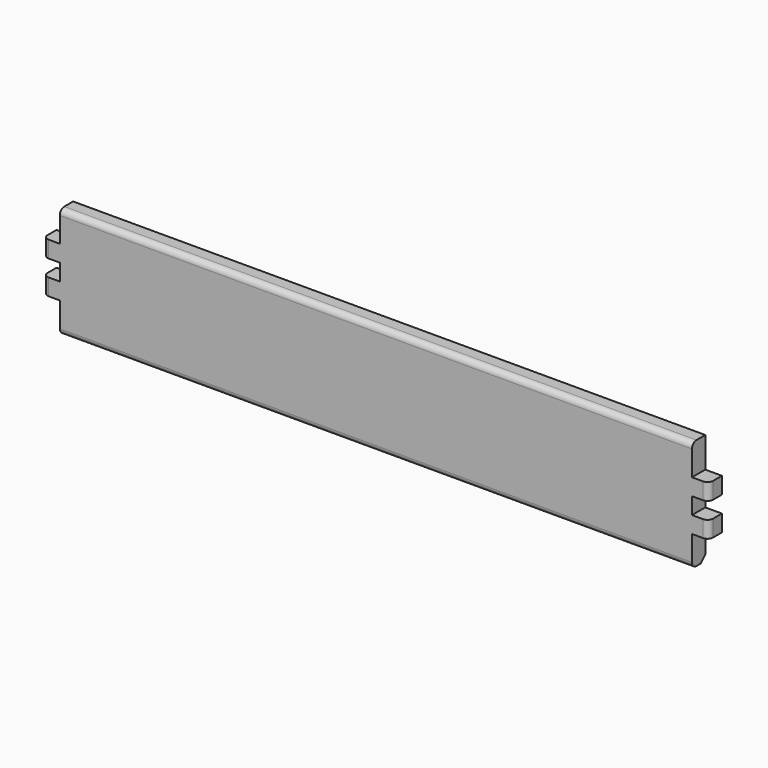
from build123d import *

# Parameters (mm, degrees)
F1_DEPTH = 15
F2_R     = 5
F3_R     = 5
F4_SIZE  = 5


with BuildPart() as f1:
    # F0 (on Front) → F1 (new body)
    with BuildSketch(Plane.XZ):
        Polygon((-300, -22.5), (-285, -22.5), (-285, -50), (0, -50), (285, -50), (285, -22.5), (300, -22.5), (300, -7.5), (285, -7.5), (285, 7.5), (300, 7.5), (300, 22.5), (285, 22.5), (285, 50), (0, 50), (-285, 50), (-285, 22.5), (-300, 22.5), (-300, 7.5), (-285, 7.5), (-285, -7.5), (-300, -7.5), align=None)
    extrude(amount=F1_DEPTH)

    # F2
    f2_edges = [f1.edges().sort_by_distance(p)[0] for p in [
        (300, -15, 15),
        (300, -15, -15),
        (-300, -15, -15),
        (-300, -15, 15),
    ]]
    fillet(f2_edges, radius=F2_R)

    # F3
    f3_edges = [f1.edges().sort_by_distance(p)[0] for p in [
        (0, -15, 50),
        (0, -15, -50),
    ]]
    fillet(f3_edges, radius=F3_R)

    # F4
    f4_edges = [f1.edges().sort_by_distance(p)[0] for p in [
        (0, 0, -50),
    ]]
    chamfer(f4_edges, length=F4_SIZE)


solid = f1.part
